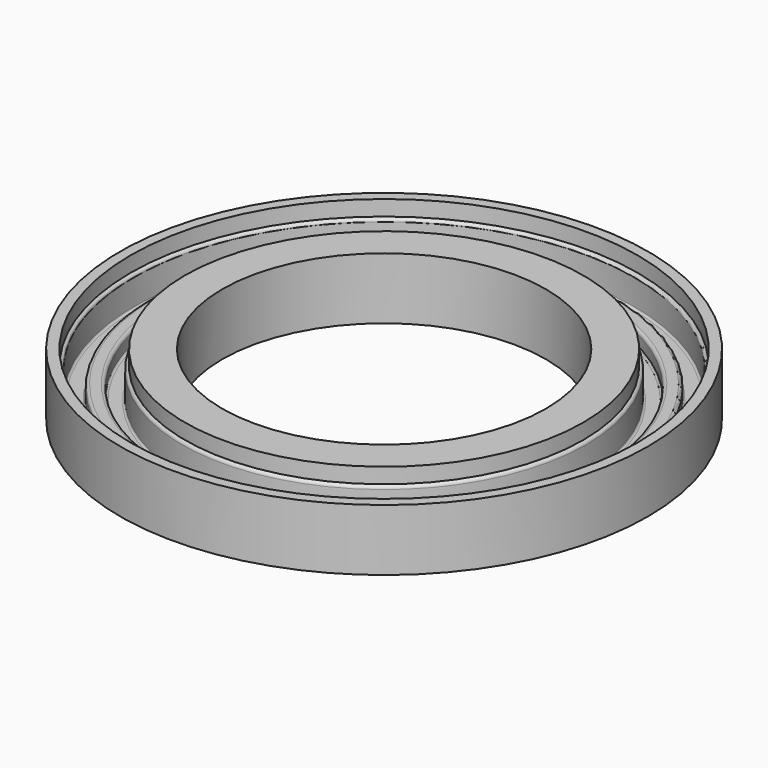
from build123d import *

# Parameters (mm, degrees)
F0_R      = 68.5
F0_R_2    = 42
F1_DEPTH  = 12
F3_R      = 65
F3_R_2    = 52.5
F4_DEPTH  = 8
F6_R      = 60.5
F6_R_2    = 56.5
F7_DEPTH  = 4
F8_R      = 0.8
F9_R      = 0.5
F10_DEPTH = 4


with BuildPart() as f1:
    # F0 (on Top) → F1 (new body)
    with BuildSketch(Plane.XY):
        Circle(F0_R)
        Circle(F0_R_2, mode=Mode.SUBTRACT)
    extrude(amount=F1_DEPTH)

    # F3 (on offset) → F4 (cut)
    with BuildSketch(Plane.XY.offset(12)):
        Circle(F3_R)
        Circle(F3_R_2, mode=Mode.SUBTRACT)
    extrude(amount=-F4_DEPTH, mode=Mode.SUBTRACT)

    # F6 (on offset) → F7 (join)
    with BuildSketch(Plane.XY.offset(4)):
        Circle(F6_R)
        Circle(F6_R_2, mode=Mode.SUBTRACT)
    extrude(amount=F7_DEPTH)

    # F8
    f8_edges = [f1.edges().sort_by_distance(p)[0] for p in [
        (-60.5, 0, 8),
        (-56.5, 0, 8),
        (-65, 0, 12),
        (-52.5, 0, 12),
    ]]
    fillet(f8_edges, radius=F8_R)

    # F9
    f9_edges = [f1.edges().sort_by_distance(p)[0] for p in [
        (-65, 0, 4),
        (-60.5, 0, 4),
        (-56.5, 0, 4),
        (-52.5, 0, 4),
    ]]
    fillet(f9_edges, radius=F9_R)

    # F10 (add): faces of the model
    f10_faces = [f1.faces().sort_by_distance(p)[0] for p in [
        (-67.7374725805, 0, 12),
        (-50.2377031765, 0, 12),
    ]]
    extrude(f10_faces, amount=F10_DEPTH)


solid = f1.part
